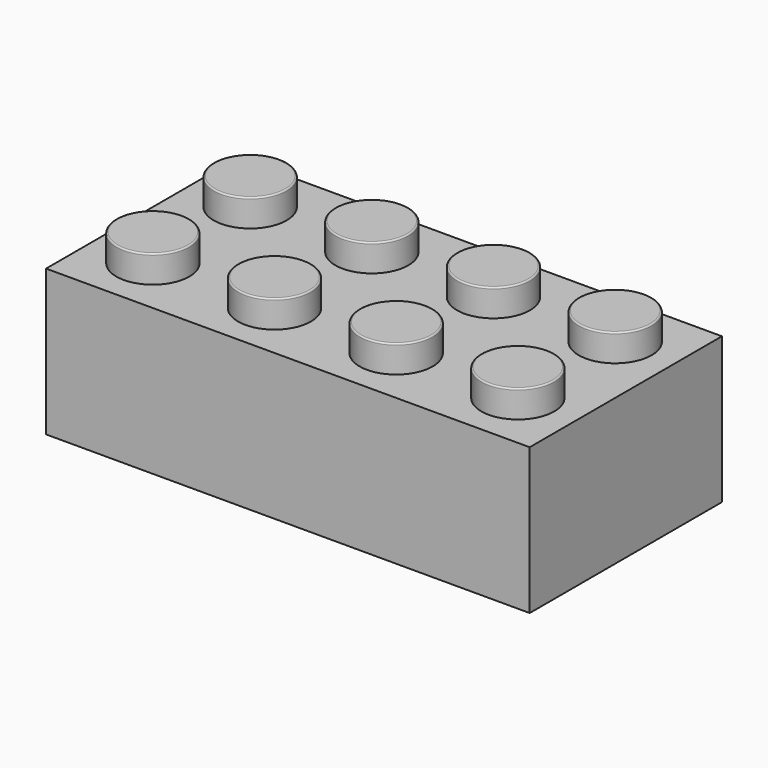
from build123d import *

# Parameters (mm, degrees)
F0_W      = 31.8
F0_H      = 15.8
F1_DEPTH  = 9.6
F3_R      = 2.4
F4_DEPTH  = 1.8
F5_W      = 29.4
F5_H      = 13.4
F6_DEPTH  = 8.4
F6_TAPER  = 1.5
F7_R      = 1.3
F8_DEPTH  = 1.7
F9_R      = 3.25
F9_R_2    = 2.4
F10_DEPTH = 8.4
F10_TAPER = -1
F11_R     = 0.1


with BuildPart() as f1:
    # F0 (on Top) → F1 (new body)
    with BuildSketch(Plane.XY):
        Rectangle(F0_W, F0_H)
    extrude(amount=F1_DEPTH)

    # F3 (on offset) → F4 (join)
    with BuildSketch(Plane.XY.offset(9.6)):
        with Locations((-12, 4)):
            Circle(F3_R)
        with Locations((-4, 4)):
            Circle(F3_R)
        with Locations((4, 4)):
            Circle(F3_R)
        with Locations((12, 4)):
            Circle(F3_R)
        with Locations((-12, -4)):
            Circle(F3_R)
        with Locations((-4, -4)):
            Circle(F3_R)
        with Locations((4, -4)):
            Circle(F3_R)
        with Locations((12, -4)):
            Circle(F3_R)
    extrude(amount=F4_DEPTH)

    # F5 (on face) → F6 (cut)
    with BuildSketch(Plane(origin=(0, 0, 0), x_dir=(1, 0, 0), z_dir=(0, 0, -1))):
        Rectangle(F5_W, F5_H)
    extrude(amount=-F6_DEPTH, taper=F6_TAPER, mode=Mode.SUBTRACT)

    # F7 (on face) → F8 (cut)
    with BuildSketch(Plane(origin=(0, 0, 8.4), x_dir=(1, 0, 0), z_dir=(0, 0, -1))):
        with Locations((-12, 4)):
            Circle(F7_R)
        with Locations((-4, 4)):
            Circle(F7_R)
        with Locations((4, 4)):
            Circle(F7_R)
        with Locations((12, 4)):
            Circle(F7_R)
        with Locations((12, -4)):
            Circle(F7_R)
        with Locations((4, -4)):
            Circle(F7_R)
        with Locations((-4, -4)):
            Circle(F7_R)
        with Locations((-12, -4)):
            Circle(F7_R)
    extrude(amount=-F8_DEPTH, mode=Mode.SUBTRACT)

    # F9 (on Top) → F10 (join, through all)
    with BuildSketch(Plane.XY):
        with Locations((-8, 0)):
            Circle(F9_R)
        with Locations((-8, 0)):
            Circle(F9_R_2, mode=Mode.SUBTRACT)
        Circle(F9_R)
        Circle(F9_R_2, mode=Mode.SUBTRACT)
        with Locations((8, 0)):
            Circle(F9_R)
        with Locations((8, 0)):
            Circle(F9_R_2, mode=Mode.SUBTRACT)
    extrude(amount=F10_DEPTH, taper=F10_TAPER)

    # F11
    f11_edges = [f1.edges().sort_by_distance(p)[0] for p in [
        (9.6, 4, 11.4),
        (9.6, -4, 11.4),
        (1.6, -4, 11.4),
        (1.6, 4, 11.4),
        (-6.4, -4, 11.4),
        (-6.4, 4, 11.4),
        (-14.4, -4, 11.4),
        (-14.4, 4, 11.4),
    ]]
    fillet(f11_edges, radius=F11_R)


solid = f1.part
